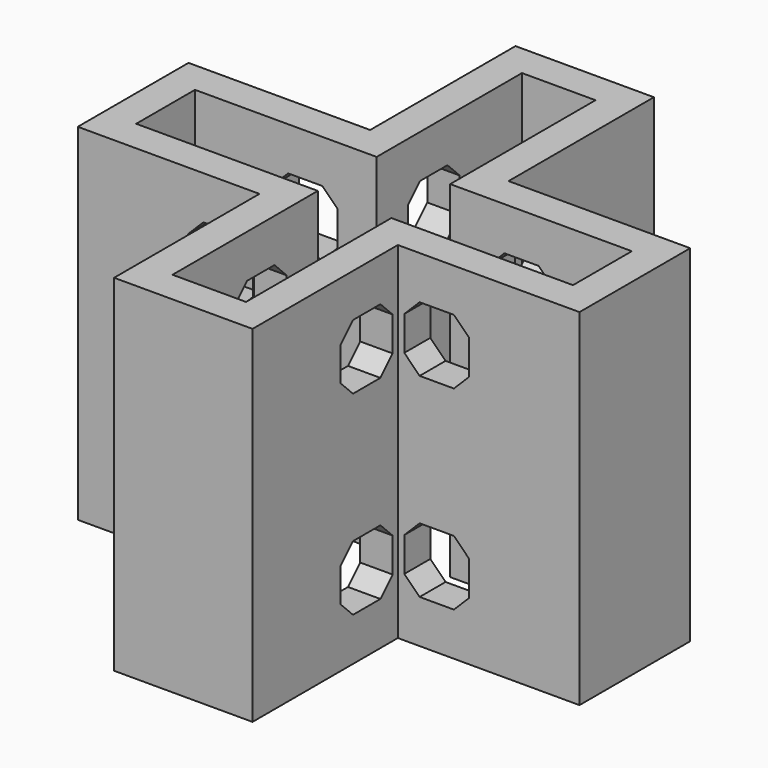
from build123d import *

# Parameters (mm, degrees)
PAD040_DEPTH    = 8
PAD041_DEPTH    = 8
POCKET029_DEPTH = 14.801
POCKET030_DEPTH = 14.801
POCKET031_DEPTH = 16.001


with BuildPart() as part:
    # Sketch069 (on Face4 of Binder015) → Pad040 (new body)
    with BuildSketch(Plane.XY.offset(89.8)):
        Polygon((-86.8396103068, 95.2396103068), (-80.4396103068, 95.2396103068), (-80.4396103068, 86.8396103068), (-72.0396103068, 86.8396103068), (-72.0396103068, 80.4396103068), (-80.4396103068, 80.4396103068), (-80.4396103068, 72.0396103068), (-86.8396103068, 72.0396103068), (-86.8396103068, 80.4396103068), (-95.2396103068, 80.4396103068), (-95.2396103068, 86.8396103068), (-86.8396103068, 86.8396103068), align=None)
    extrude(amount=-PAD040_DEPTH)

    # Sketch070 (on Face13 of Pad040) → Pad041 (join)
    with BuildSketch(Plane.XY.offset(89.8)):
        Polygon((-86.8396103068, 95.2396103068), (-80.4396103068, 95.2396103068), (-80.4396103068, 86.8396103068), (-72.0396103068, 86.8396103068), (-72.0396103068, 80.4396103068), (-80.4396103068, 80.4396103068), (-80.4396103068, 72.0396103068), (-86.8396103068, 72.0396103068), (-86.8396103068, 80.4396103068), (-95.2396103068, 80.4396103068), (-95.2396103068, 86.8396103068), (-86.8396103068, 86.8396103068), align=None)
    extrude(amount=PAD041_DEPTH)

    # Sketch071 (on Face5 of Pad041) → Pocket029 (cut, through all)
    with BuildSketch(Plane(origin=(-86.8396103068, 0, 0), x_dir=(0, -1, 0), z_dir=(-1, 0, 0))):
        Polygon((-89.4325218802, 86.8), (-87.8467354426, 86.8), (-87.1396286614, 86.0928932188), (-87.1396286614, 84.5071067812), (-87.8467354426, 83.8), (-89.4325218802, 83.8), (-90.1396286614, 84.5071067812), (-90.1396286614, 86.0928932188), align=None)
        Polygon((-80.1395919522, 86.0928932188), (-80.1395919522, 84.5071067812), (-79.432485171, 83.8), (-77.8466987333, 83.8), (-77.1395919522, 84.5071067812), (-77.1395919522, 86.0928932188), (-77.8466987333, 86.8), (-79.432485171, 86.8), align=None)
        Polygon((-89.4325218802, 92.8), (-87.8467354426, 92.8), (-87.1396286614, 93.5071067812), (-87.1396286614, 95.0928932188), (-87.8467354426, 95.8), (-89.4325218802, 95.8), (-90.1396286614, 95.0928932188), (-90.1396286614, 93.5071067812), align=None)
        Polygon((-77.8466987333, 95.8), (-79.432485171, 95.8), (-80.1395919522, 95.0928932188), (-80.1395919522, 93.5071067812), (-79.432485171, 92.8), (-77.8466987333, 92.8), (-77.1395919522, 93.5071067812), (-77.1395919522, 95.0928932188), align=None)
    extrude(amount=-POCKET029_DEPTH, mode=Mode.SUBTRACT)

    # Sketch072 (on Face4 of Pocket029) → Pocket030 (cut, through all)
    with BuildSketch(Plane(origin=(0, 86.8396103068, 0), x_dir=(-1, 0, 0), z_dir=(0, 1, 0))):
        Polygon((77.8467170496, 86.8), (79.4325034872, 86.8), (80.1396102684, 86.0928932188), (80.1396102684, 84.5071067812), (79.4325034872, 83.8), (77.8467170496, 83.8), (77.1396102684, 84.5071067812), (77.1396102684, 86.0928932188), align=None)
        Polygon((87.8467171264, 86.8), (89.432503564, 86.8), (90.1396103452, 86.0928932188), (90.1396103452, 84.5071067812), (89.432503564, 83.8), (87.8467171264, 83.8), (87.1396103452, 84.5071067812), (87.1396103452, 86.0928932188), align=None)
        Polygon((77.1396102684, 95.0928932188), (77.1396102684, 93.5071067812), (77.8467170496, 92.8), (79.4325034872, 92.8), (80.1396102684, 93.5071067812), (80.1396102684, 95.0928932188), (79.4325034872, 95.8), (77.8467170496, 95.8), align=None)
        Polygon((87.1396103452, 95.0928932188), (87.1396103452, 93.5071067812), (87.8467171264, 92.8), (89.432503564, 92.8), (90.1396103452, 93.5071067812), (90.1396103452, 95.0928932188), (89.432503564, 95.8), (87.8467171264, 95.8), align=None)
    extrude(amount=-POCKET030_DEPTH, mode=Mode.SUBTRACT)

    # Sketch073 (on Face1 of Pocket030) → Pocket031 (cut, through all)
    with BuildSketch(Plane.XY.offset(97.8)):
        Polygon((-85.3396103068, 93.7396103068), (-81.9396103068, 93.7396103068), (-81.9396103068, 85.3396103068), (-73.5396103068, 85.3396103068), (-73.5396103068, 81.9396103068), (-81.9396103068, 81.9396103068), (-81.9396103068, 73.5396103068), (-85.33961, 73.53961), (-85.33961, 81.93961), (-93.73961, 81.93961), (-93.73961, 85.33961), (-85.33961, 85.33961), align=None)
    extrude(amount=-POCKET031_DEPTH, mode=Mode.SUBTRACT)


solid = part.part
